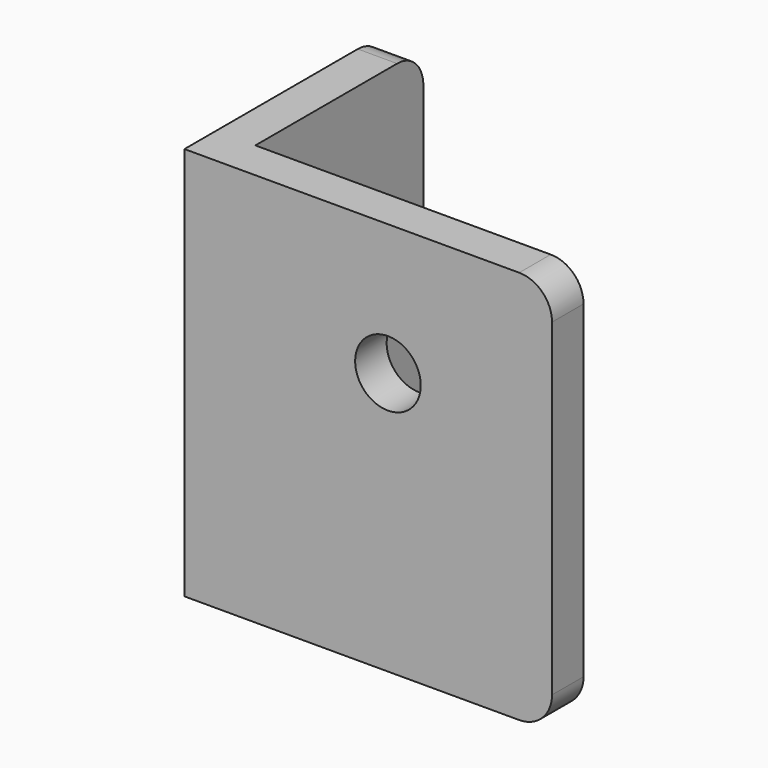
from build123d import *

# Parameters (mm, degrees)
PAD_DEPTH       = 30
SKETCH001_R     = 2.5
POCKET_DEPTH    = 3.001
SKETCH002_R     = 2.5
POCKET001_DEPTH = 5
FILLET_R        = 2.5
CHAMFER_SIZE    = 1


with BuildPart() as part:
    # Sketch → Pad (new body)
    with BuildSketch(Plane.XY):
        Polygon((-3, 19), (0, 19), (0, 3), (25, 3), (25, 0), (0, 0), (-3, 0), align=None)
    extrude(amount=PAD_DEPTH)

    # Sketch001 (on Face2 of Pad) → Pocket (cut, through all)
    with BuildSketch(Plane.YZ):
        with Locations((11, 8)):
            Circle(SKETCH001_R)
    extrude(amount=-POCKET_DEPTH, mode=Mode.SUBTRACT)

    # Sketch002 (on Face8 of Pocket) → Pocket001 (cut)
    with BuildSketch(Plane(origin=(0, 3, 0), x_dir=(-1, 0, 0), z_dir=(0, 1, 0))):
        with Locations((-12.5, 20)):
            Circle(SKETCH002_R)
    extrude(amount=-POCKET001_DEPTH, mode=Mode.SUBTRACT)

    # Fillet
    fillet_edges = [part.edges().sort_by_distance(p)[0] for p in [
        (25, 1.5, 0),
        (25, 1.5, 30),
        (-1.5, 19, 30),
        (-1.5, 19, 0),
    ]]
    fillet(fillet_edges, radius=FILLET_R)

    # Chamfer
    chamfer_edges = [part.edges().sort_by_distance(p)[0] for p in [
        (-3, 8.5, 8),
    ]]
    chamfer(chamfer_edges, length=CHAMFER_SIZE)


solid = part.part
